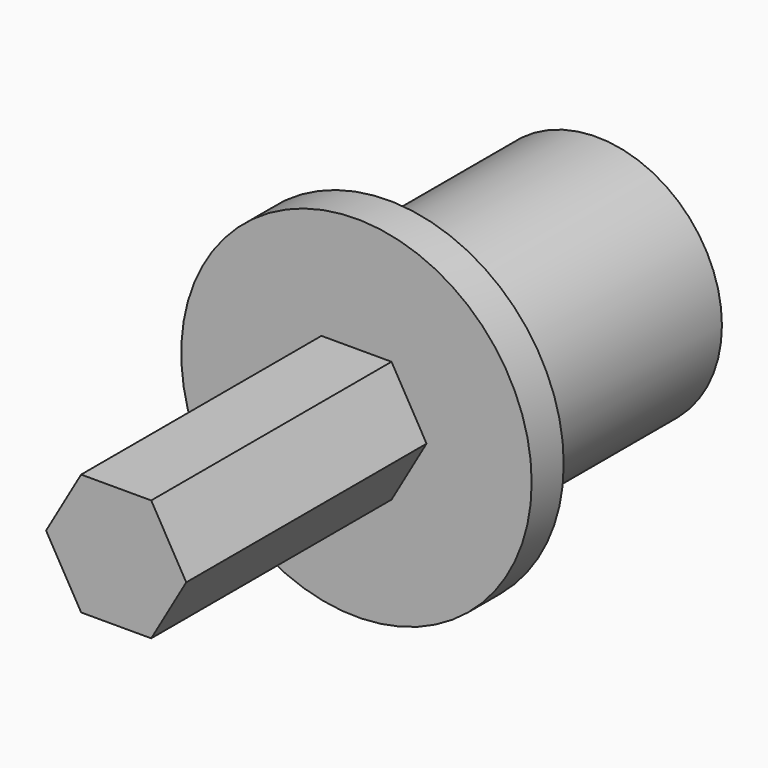
from build123d import *

# Parameters (mm, degrees)
F0_R     = 8.75
F0_R_2   = 6.25
F1_DEPTH = 2
F2_DEPTH = 15
F3_DEPTH = 15


with BuildPart() as f1:
    # F0 (on Front) → F1 (new body)
    with BuildSketch(Plane.XZ):
        with Locations((0, -6.7e-05)):
            Circle(F0_R)
        with Locations((0, -6.7e-05)):
            Circle(F0_R_2, mode=Mode.SUBTRACT)
    extrude(amount=-F1_DEPTH)

    # F0 (on Front) → F2 (join)
    with BuildSketch(Plane.XZ):
        with Locations((0, -6.7e-05)):
            Circle(F0_R_2)
        Polygon((1.75, -3.031089), (-1.75, -3.031089), (-3.5, 0), (-1.75, 3.031089), (1.75, 3.031089), (3.5, 0), align=None, mode=Mode.SUBTRACT)
    extrude(amount=-F2_DEPTH)

    # F0 (on Front) → F3 (join, symmetric)
    with BuildSketch(Plane.XZ):
        Polygon((-3.5, 0), (-1.75, -3.031089), (1.75, -3.031089), (3.5, 0), (1.75, 3.031089), (-1.75, 3.031089), align=None)
    extrude(amount=F3_DEPTH, both=True)


solid = f1.part
